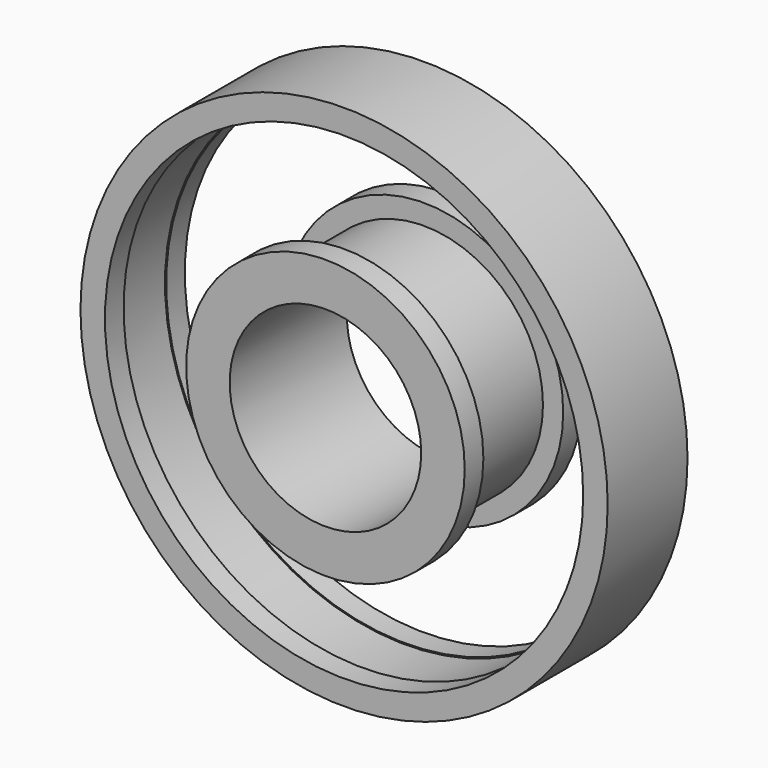
from build123d import *

# Parameters (mm, degrees)
F0_R     = 100.6280045114
F0_R_2   = 91.2790894458
F1_DEPTH = 38.1
F0_R_3   = 53.1790894458
F0_R_4   = 45.4431162604
F2_T     = -8.89
F3_T     = 8.89


with BuildPart() as f1:
    # F0 (on Front) → F1 (new body)
    with BuildSketch(Plane.XZ):
        Circle(F0_R)
        Circle(F0_R_2, mode=Mode.SUBTRACT)
    extrude(amount=F1_DEPTH)

    # F2
    f2_openings = [f1.faces().sort_by_distance(p)[0] for p in [
        (-91.279089, -19.05, 0),
    ]]
    offset(amount=F2_T, openings=f2_openings)


with BuildPart() as f1b:
    # F0 (on Front) → F1, piece 2 (new body)
    with BuildSketch(Plane.XZ):
        Circle(F0_R_3)
        Circle(F0_R_4, mode=Mode.SUBTRACT)
    extrude(amount=F1_DEPTH)

    # F3
    f3_openings = [f1b.faces().sort_by_distance(p)[0] for p in [
        (-53.179089, -19.05, 0),
    ]]
    offset(amount=F3_T, openings=f3_openings, kind=Kind.INTERSECTION)


solid = Compound([f1.part, f1b.part])
